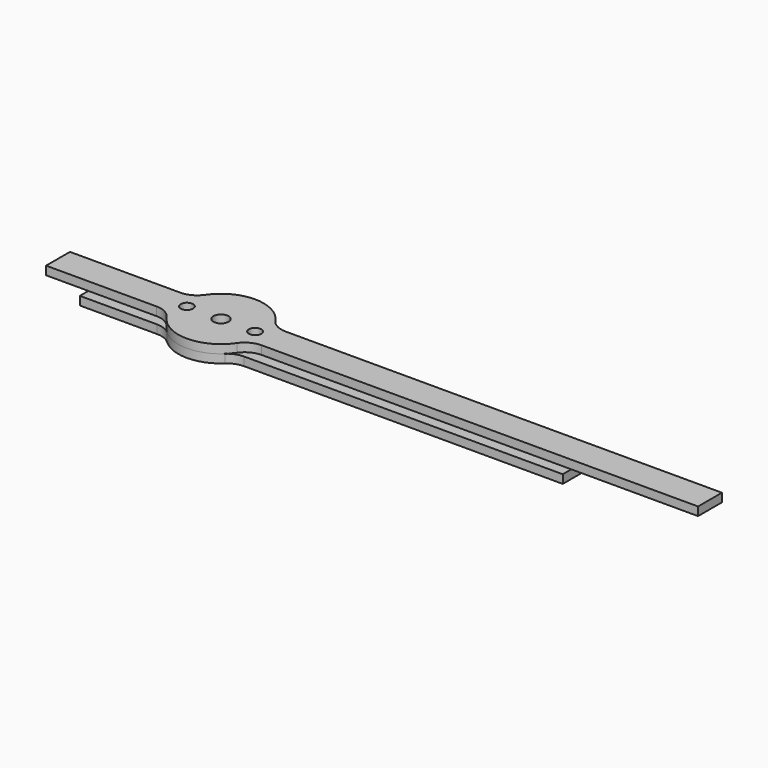
from build123d import *

# Parameters (mm, degrees)
F0_R     = 1.7859375
F1_DEPTH = 2
F2_R     = 1.7859375
F3_DEPTH = 2
F4_R     = 1.45
F5_DEPTH = 25
F6_R     = 5
F6_2_R   = 5


with BuildPart() as f1:
    # F0 (on Top) → F1 (new body)
    with BuildSketch(Plane.XY):
        with BuildLine():
            Line((-9.3674969976, 3.5), (-38.25, 3.5))
            Line((-38.25, 3.5), (-38.25, -3.5))
            Line((-38.25, -3.5), (-9.3674969976, -3.5))
            ThreePointArc((-9.3674969976, -3.5), (-10, 0), (-9.3674969976, 3.5))
        make_face()
        with BuildLine():
            ThreePointArc((9.3674969976, 3.5), (0, 10), (-9.3674969976, 3.5))
            Line((-9.3674969976, 3.5), (9.3674969976, 3.5))
        make_face()
        with BuildLine():
            Line((9.3674969976, 3.5), (-9.3674969976, 3.5))
            ThreePointArc((-9.3674969976, 3.5), (-10, 0), (-9.3674969976, -3.5))
            Line((-9.3674969976, -3.5), (9.3674969976, -3.5))
            ThreePointArc((9.3674969976, -3.5), (9.8406038935, -1.7783461452), (10, 0))
            ThreePointArc((10, 0), (9.8406038935, 1.7783461452), (9.3674969976, 3.5))
        make_face()
        Circle(F0_R, mode=Mode.SUBTRACT)
        with BuildLine():
            Line((114.75, 3.5), (9.3674969976, 3.5))
            ThreePointArc((9.3674969976, 3.5), (9.8406038935, 1.7783461452), (10, 0))
            ThreePointArc((10, 0), (9.8406038935, -1.7783461452), (9.3674969976, -3.5))
            Line((9.3674969976, -3.5), (114.75, -3.5))
            Line((114.75, -3.5), (114.75, 3.5))
        make_face()
        with BuildLine():
            Line((9.3674969976, -3.5), (-9.3674969976, -3.5))
            ThreePointArc((-9.3674969976, -3.5), (0, -10), (9.3674969976, -3.5))
        make_face()
    extrude(amount=F1_DEPTH)


with BuildPart() as f3:
    # F2 (on Top) → F3 (new body)
    with BuildSketch(Plane.XY):
        with BuildLine():
            Line((-8, 6), (-28.3333333333, 6))
            Line((-28.3333333333, 6), (-28.3333333333, -6))
            Line((-28.3333333333, -6), (-8, -6))
            ThreePointArc((-8, -6), (-10, 0), (-8, 6))
        make_face()
        with BuildLine():
            ThreePointArc((8, 6), (0, 10), (-8, 6))
            Line((-8, 6), (8, 6))
        make_face()
        with BuildLine():
            Line((8, 6), (-8, 6))
            ThreePointArc((-8, 6), (-10, 0), (-8, -6))
            Line((-8, -6), (8, -6))
            ThreePointArc((8, -6), (9.4868329805, -3.1622776602), (10, 0))
            ThreePointArc((10, 0), (9.4868329805, 3.1622776602), (8, 6))
        make_face()
        Circle(F2_R, mode=Mode.SUBTRACT)
        with BuildLine():
            Line((85, 6), (8, 6))
            ThreePointArc((8, 6), (9.4868329805, 3.1622776602), (10, 0))
            ThreePointArc((10, 0), (9.4868329805, -3.1622776602), (8, -6))
            Line((8, -6), (85, -6))
            Line((85, -6), (85, 6))
        make_face()
        with BuildLine():
            Line((8, -6), (-8, -6))
            ThreePointArc((-8, -6), (0, -10), (8, -6))
        make_face()
    extrude(amount=-F3_DEPTH)


with BuildPart() as f5_tool:
    # F4 (on face) → F5 (new body)
    with BuildSketch(Plane.XY.offset(2)):
        with Locations((8, 0)):
            Circle(F4_R)
        with Locations((-8, 0)):
            Circle(F4_R)
    extrude(amount=-F5_DEPTH)


with BuildPart() as f1_1:
    add(f1.part)

    # F5: cut by f5_tool
    add(f5_tool.part, mode=Mode.SUBTRACT)

    # F6
    f6_edges = [f1_1.edges().sort_by_distance(p)[0] for p in [
        (9.367497, -3.5, 1),
        (9.367497, 3.5, 1),
        (-9.367497, 3.5, 1),
        (-9.367497, -3.5, 1),
    ]]
    fillet(f6_edges, radius=F6_R)


with BuildPart() as f3_1:
    add(f3.part)

    # F5: cut by f5_tool
    add(f5_tool.part, mode=Mode.SUBTRACT)

    # F6#2
    f6_2_edges = [f3_1.edges().sort_by_distance(p)[0] for p in [
        (-8, -6, -1),
        (8, 6, -1),
        (8, -6, -1),
        (-8, 6, -1),
    ]]
    fillet(f6_2_edges, radius=F6_2_R)


solid = Compound([f1_1.part, f3_1.part])
